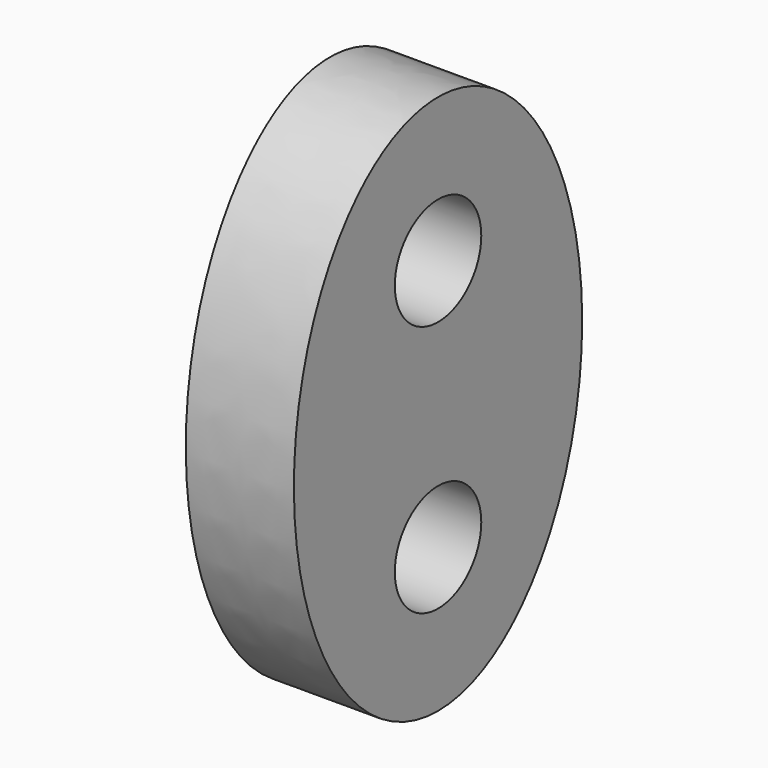
from build123d import *

# Parameters (mm, degrees)
F0_R     = 1.5
F1_DEPTH = 3


with BuildPart() as f1:
    # F0 (on Right) → F1 (new body)
    with BuildSketch(Plane.YZ):
        with BuildLine():
            add(Edge.make_bspline(
                [(0, -7.5), (8.660254, -7.5), (4.330127, 3.75), (0, 15), (-4.330127, 3.75), (-8.660254, -7.5), (0, -7.5)],
                knots=[0, 0, 0, 2.094395, 2.094395, 4.18879, 4.18879, 6.283185, 6.283185, 6.283185], degree=2, weights=[1, 0.5, 1, 0.5, 1, 0.5, 1]))
        make_face()
        with Locations((0, -3.5)):
            Circle(F0_R, mode=Mode.SUBTRACT)
        with Locations((0, 3.5)):
            Circle(F0_R, mode=Mode.SUBTRACT)
    extrude(amount=F1_DEPTH)


solid = f1.part
